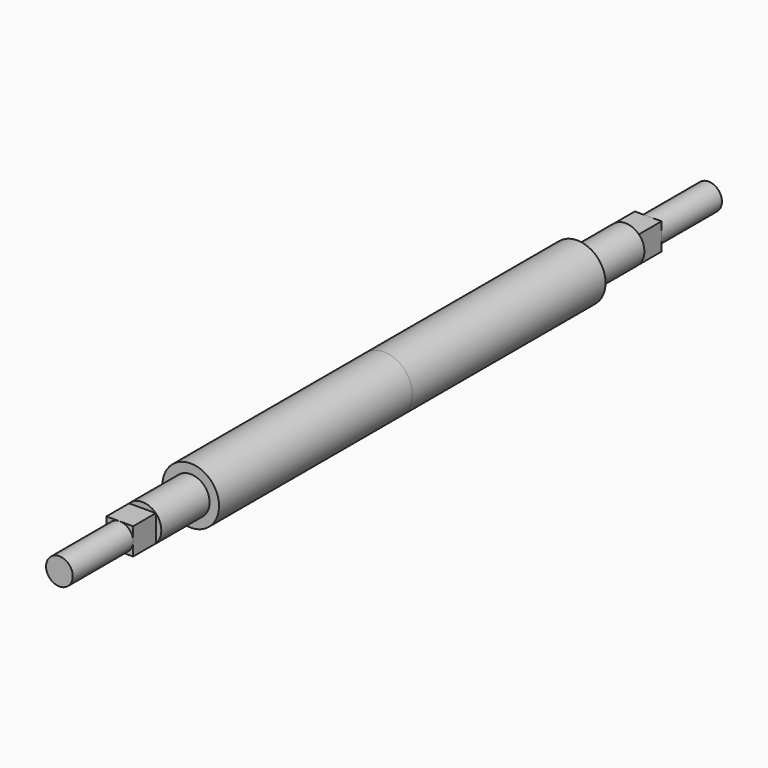
from build123d import *

# Parameters (mm, degrees)
F0_R     = 3.175
F1_DEPTH = 50.8
F2_W     = 4.490128
F2_H     = 4.490128
F3_DEPTH = 4.7625
F4_R     = 2.245064
F5_DEPTH = 12.7
F6_R     = 4.7625
F7_DEPTH = 40.64


with BuildPart() as f1:
    # F0 (on Front) → F1 (new body)
    with BuildSketch(Plane.XZ):
        Circle(F0_R)
    extrude(amount=F1_DEPTH)

    # F2 (on face) → F3 (join)
    with BuildSketch(Plane.XZ.offset(50.8)):
        Rectangle(F2_W, F2_H)
    extrude(amount=F3_DEPTH)

    # F4 (on face) → F5 (join)
    with BuildSketch(Plane.XZ.offset(55.5625)):
        Circle(F4_R)
    extrude(amount=F5_DEPTH)

    # F6 (on face) → F7 (join)
    with BuildSketch(Plane(origin=(0, 0, 0), x_dir=(-1, 0, 0), z_dir=(0, 1, 0))):
        Circle(F6_R)
    extrude(amount=-F7_DEPTH)

    # F8: F1 across plane


with BuildPart() as f1_1:
    add(f1.part)
    add(f1.part.mirror(Plane.XZ))


solid = f1_1.part
